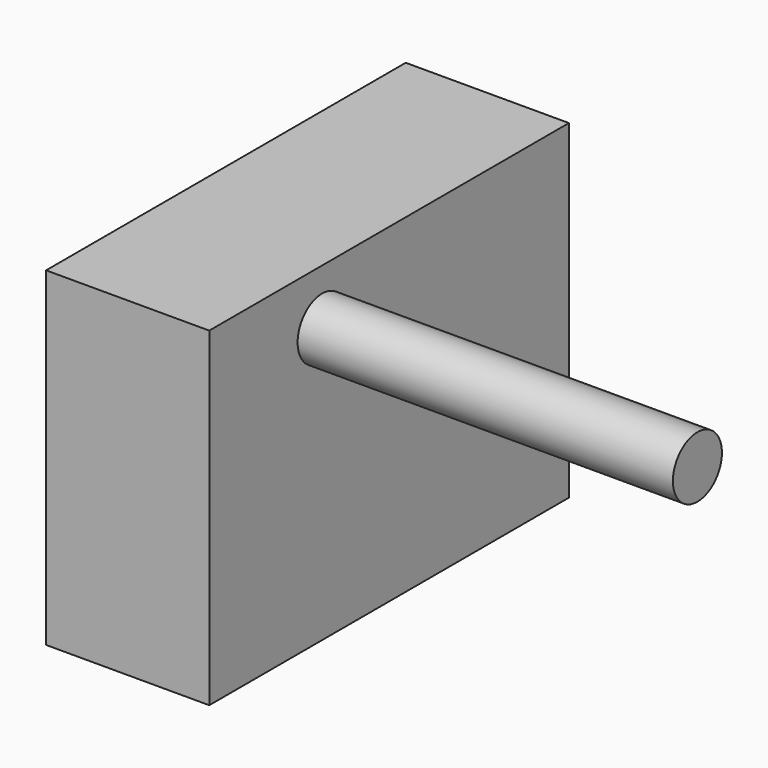
from build123d import *

# Parameters (mm, degrees)
F0_W     = 86.4973
F0_H     = 72.206441
F1_DEPTH = 52.97973
F2_W     = 72.206441
F2_H     = 52.97973
F2_R     = 4.921415
F3_DEPTH = 60.28351


with BuildPart() as f1:
    # F0 (on Top) → F1 (new body)
    with BuildSketch(Plane.XY):
        with Locations((1.504302, 1.034205)):
            Rectangle(F0_W, F0_H)
    extrude(amount=F1_DEPTH)

    # F2 (on face) → F3 (cut)
    with BuildSketch(Plane.YZ.offset(44.752952)):
        with Locations((1.034205, 26.489865)):
            Rectangle(F2_W, F2_H)
        with Locations((-12.410481, 44.09482)):
            Circle(F2_R, mode=Mode.SUBTRACT)
    extrude(amount=-F3_DEPTH, mode=Mode.SUBTRACT)


solid = f1.part
